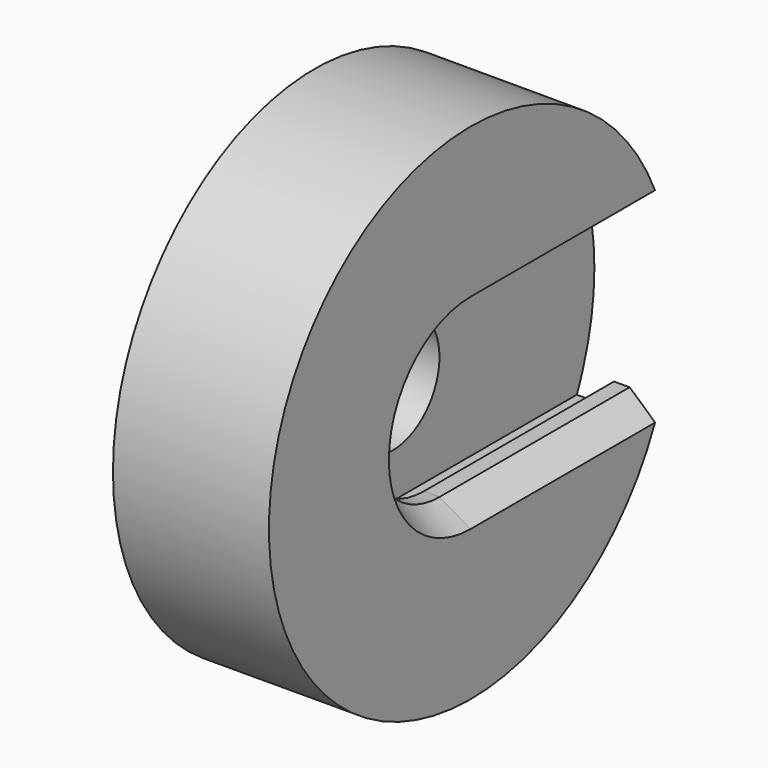
from build123d import *

# Parameters (mm, degrees)
F3_DEPTH = 3.175
F5_DEPTH = 1.27
F6_SIZE2 = 1.27
F6_SIZE  = 0.7332348419


with BuildPart() as f1:
    # F0 (on Top) → F1 (revolve)
    with BuildSketch(Plane.XY):
        Polygon((0, 3.429), (0, 10.2616), (-6.35, 10.2616), (-6.35, 2.38125), (-3.175, 2.38125), (-3.175, 4.191), (-1.905, 4.191), (-1.905, 3.429), align=None)
    revolve(axis=Axis((-3.175, 0, 0), (-1, 0, 0)))

    # F2 (on face) → F3 (cut, through all)
    with BuildSketch(Plane.YZ):
        with BuildLine():
            ThreePointArc((3.429, 0), (2.4246691527, -2.4246691527), (0, -3.429))
            Line((0, -3.429), (9.6717316733, -3.429))
            ThreePointArc((9.6717316733, -3.429), (10.1130578041, -1.7396828477), (10.2616, 0))
            ThreePointArc((10.2616, 0), (10.1130578041, 1.7396828477), (9.6717316733, 3.429))
            Line((9.6717316733, 3.429), (0, 3.429))
            ThreePointArc((0, 3.429), (2.4246691527, 2.4246691527), (3.429, 0))
        make_face()
    extrude(amount=-F3_DEPTH, mode=Mode.SUBTRACT)

    # F4 (on face) → F5 (cut)
    with BuildSketch(Plane.YZ.offset(-3.175)):
        with BuildLine():
            ThreePointArc((0, 4.191), (-4.191, 0), (0, -4.191))
            Line((0, -4.191), (9.3667472241, -4.191))
            ThreePointArc((9.3667472241, -4.191), (9.5268610088, -3.8130504689), (9.6717316733, -3.429))
            ThreePointArc((9.6717316733, -3.429), (10.2616, 0), (9.6717316733, 3.429))
            ThreePointArc((9.6717316733, 3.429), (9.5268610088, 3.8130504689), (9.3667472241, 4.191))
            Line((9.3667472241, 4.191), (0, 4.191))
        make_face()
    extrude(amount=F5_DEPTH, mode=Mode.SUBTRACT)

    # F6
    f6_edges = [f1.edges().sort_by_distance(p)[0] for p in [
        (0, 4.835866, -3.429),
        (0, 4.835866, 3.429),
    ]]
    f6_side = f1.faces().sort_by_distance((0, 4.835866, -3.715101))[0]
    chamfer(f6_edges, length=F6_SIZE, length2=F6_SIZE2, reference=f6_side)


solid = f1.part
